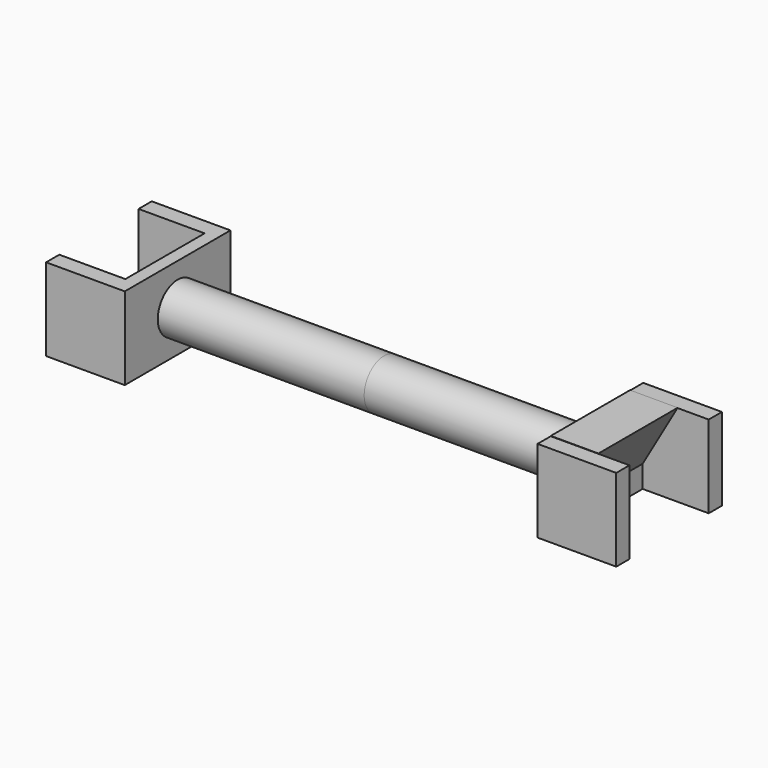
from build123d import *

# Parameters (mm, degrees)
F0_R     = 1.5
F1_DEPTH = 12.5
F3_DEPTH = 2.5
F6_DEPTH = 3


with BuildPart() as f1:
    # F0 (on Right) → F1 (new body)
    with BuildSketch(Plane.YZ):
        Circle(F0_R)
    extrude(amount=-F1_DEPTH)

    # F2 (on Top) → F3 (join, symmetric)
    with BuildSketch(Plane.XY):
        Polygon((-12.5, -4), (-12.5, 4), (-17.26534, 4), (-17.26534, 3), (-13.26534, 3), (-13.26534, -3), (-17.26534, -3), (-17.26534, -4), align=None)
    extrude(amount=F3_DEPTH, both=True)

    # F4: F1 across plane


with BuildPart() as f1_1:
    add(f1.part)
    add(f1.part.mirror(Plane.YZ))

    # F5 (on Front) → F6 (join, symmetric)
    with BuildSketch(Plane.XZ):
        Polygon((15.386751, 2.518649), (12.5, 2.518649), (12.5, -2.481351), align=None)
    extrude(amount=F6_DEPTH, both=True)


solid = f1_1.part
